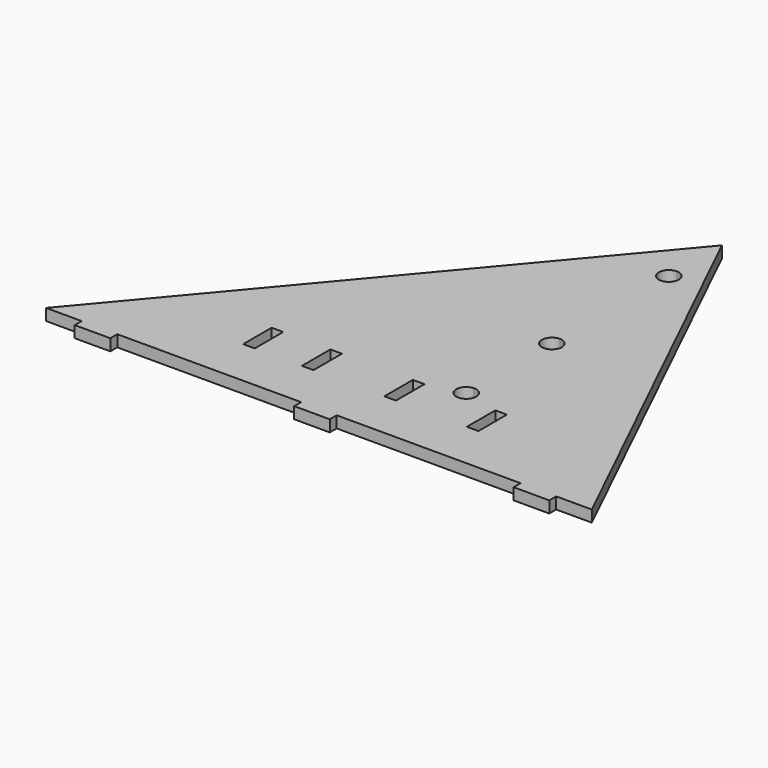
from build123d import *

# Parameters (mm, degrees)
F1_DEPTH = 12.3952
F2_W     = 38.1
F2_H     = 12.3952
F3_DEPTH = 9.2964
F4_W     = 12.3952
F4_H     = 38.1
F5_DEPTH = 12.3952


with BuildPart() as f1:
    # F0 (on Top) → F1 (new body)
    with BuildSketch(Plane.XY):
        with BuildLine():
            Line((370.379511, 441.401113), (0, 0))
            Line((0, 0), (370.379511, 0))
            Line((370.379511, 0), (370.379511, 88.52408))
            ThreePointArc((370.379511, 88.52408), (359.660711, 99.24288), (370.379511, 109.96168))
            Line((370.379511, 109.96168), (370.379511, 203.119918))
            ThreePointArc((370.379511, 203.119918), (359.660711, 213.838718), (370.379511, 224.557518))
            Line((370.379511, 224.557518), (370.379511, 359.660723))
            ThreePointArc((370.379511, 359.660723), (359.660711, 370.379523), (370.379511, 381.098323))
            Line((370.379511, 381.098323), (370.379511, 441.401113))
        make_face()
        with BuildLine():
            Line((370.379511, 88.52408), (370.379511, 0))
            Line((370.379511, 0), (584.2, 0))
            Line((584.2, 0), (370.379511, 441.401113))
            Line((370.379511, 441.401113), (370.379511, 381.098323))
            ThreePointArc((370.379511, 381.098323), (377.958847, 377.95886), (381.098311, 370.379523))
            ThreePointArc((381.098311, 370.379523), (377.958847, 362.800187), (370.379511, 359.660723))
            Line((370.379511, 359.660723), (370.379511, 224.557518))
            ThreePointArc((370.379511, 224.557518), (377.958847, 221.418054), (381.098311, 213.838718))
            ThreePointArc((381.098311, 213.838718), (377.958847, 206.259381), (370.379511, 203.119918))
            Line((370.379511, 203.119918), (370.379511, 109.96168))
            ThreePointArc((370.379511, 109.96168), (377.958847, 106.822216), (381.098311, 99.24288))
            ThreePointArc((381.098311, 99.24288), (377.958847, 91.663544), (370.379511, 88.52408))
        make_face()
    extrude(amount=F1_DEPTH)

    # F2 (on face) → F3 (join)
    with BuildSketch(Plane.XZ):
        with Locations((57.15, 6.1976)):
            Rectangle(F2_W, F2_H)
        with Locations((292.1, 6.1976)):
            Rectangle(F2_W, F2_H)
        with Locations((527.05, 6.1976)):
            Rectangle(F2_W, F2_H)
    extrude(amount=F3_DEPTH)

    # F4 (on face) → F5 (cut, through all)
    with BuildSketch(Plane.XY.offset(12.3952)):
        with Locations((238.691288, 70.7644)):
            Rectangle(F4_W, F4_H)
        with Locations((326.981688, 70.7644)):
            Rectangle(F4_W, F4_H)
        with Locations((415.272088, 70.7644)):
            Rectangle(F4_W, F4_H)
        with Locations((175.800888, 70.7644)):
            Rectangle(F4_W, F4_H)
    extrude(amount=-F5_DEPTH, mode=Mode.SUBTRACT)


solid = f1.part
